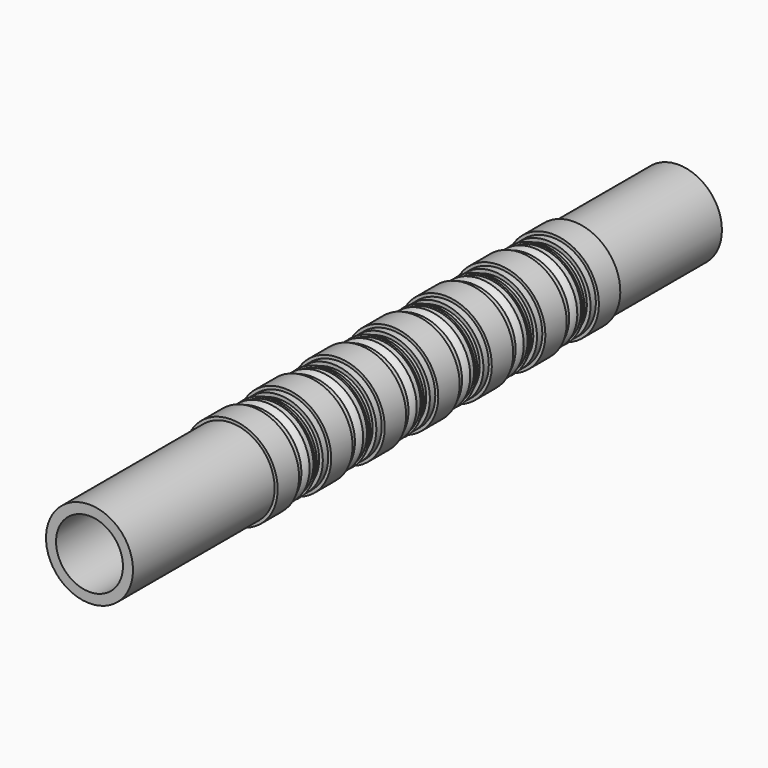
from build123d import *

# Parameters (mm, degrees)
F0_R          = 16.51
F0_R_2        = 12.7
F1_DEPTH      = 139.7
F1_DEPTH_BACK = 139.7
F2_W          = 10.16
F2_H          = 2.54


with BuildPart() as f1:
    # F0 (on Front) → F1 (new body, two sides)
    with BuildSketch(Plane.XZ) as f1_sk:
        Circle(F0_R)
        Circle(F0_R_2, mode=Mode.SUBTRACT)
    extrude(amount=-F1_DEPTH)
    extrude(f1_sk.sketch, amount=F1_DEPTH_BACK)

    # F2 (on Right) → F3 (revolve, cut)
    with BuildSketch(Plane.YZ):
        with Locations((-54.7121922189, 16.3828185506)):
            Rectangle(F2_W, F2_H)
        with Locations((-29.3121922189, 16.3828185506)):
            Rectangle(F2_W, F2_H)
        with Locations((-3.9121922189, 16.3828185506)):
            Rectangle(F2_W, F2_H)
        with Locations((21.4878077811, 16.3828185506)):
            Rectangle(F2_W, F2_H)
        with Locations((46.8878077811, 16.3828185506)):
            Rectangle(F2_W, F2_H)
        with Locations((72.2878077811, 16.3828185506)):
            Rectangle(F2_W, F2_H)
    revolve(axis=Axis((0, 5.662612617, 0), (0, 1, 0)), mode=Mode.SUBTRACT)

    # F2 (on Right) → F4 (revolve)
    with BuildSketch(Plane.YZ):
        with Locations((-67.4121922189, 16.3828185506)):
            Rectangle(F2_W, F2_H)
        with Locations((-42.0121922189, 16.3828185506)):
            Rectangle(F2_W, F2_H)
        with Locations((-16.6121922189, 16.3828185506)):
            Rectangle(F2_W, F2_H)
        with Locations((8.7878077811, 16.3828185506)):
            Rectangle(F2_W, F2_H)
        with Locations((34.1878077811, 16.3828185506)):
            Rectangle(F2_W, F2_H)
        with Locations((59.5878077811, 16.3828185506)):
            Rectangle(F2_W, F2_H)
        with Locations((84.9878077811, 16.3828185506)):
            Rectangle(F2_W, F2_H)
    revolve(axis=Axis((0, 5.662612617, 0), (0, 1, 0)))

    # F5 (on Right) → F6 (revolve)
    with BuildSketch(Plane.YZ):
        with BuildLine():
            Line((-50.9021922189, 14.731345475), (-50.9021922189, 15.1634888104))
            ThreePointArc((-50.9021922189, 15.1634888104), (-52.0859586748, 16.1518668371), (-53.5117462277, 16.7395095853))
            Line((-53.5117462277, 16.7395095853), (-53.5117462277, 16.0580500076))
            Line((-53.5117462277, 16.0580500076), (-56.1186348169, 16.0580500076))
            Line((-56.1186348169, 16.0580500076), (-56.1186348169, 16.6848105865))
            ThreePointArc((-56.1186348169, 16.6848105865), (-57.4290697154, 16.0958171339), (-58.5221922189, 15.1634888104))
            Line((-58.5221922189, 15.1634888104), (-58.5221922189, 14.731345475))
            Line((-58.5221922189, 14.731345475), (-50.9021922189, 14.731345475))
        make_face()
        with BuildLine():
            Line((-25.5021922189, 14.731345475), (-25.5021922189, 15.1634888104))
            ThreePointArc((-25.5021922189, 15.1634888104), (-26.6859586748, 16.1518668371), (-28.1117462277, 16.7395095853))
            Line((-28.1117462277, 16.7395095853), (-28.1117462277, 16.0580500076))
            Line((-28.1117462277, 16.0580500076), (-30.7186348169, 16.0580500076))
            Line((-30.7186348169, 16.0580500076), (-30.7186348169, 16.6848105865))
            ThreePointArc((-30.7186348169, 16.6848105865), (-32.0290697154, 16.0958171339), (-33.1221922189, 15.1634888104))
            Line((-33.1221922189, 15.1634888104), (-33.1221922189, 14.731345475))
            Line((-33.1221922189, 14.731345475), (-25.5021922189, 14.731345475))
        make_face()
        with BuildLine():
            Line((-0.1021922189, 14.731345475), (-0.1021922189, 15.1634888104))
            ThreePointArc((-0.1021922189, 15.1634888104), (-1.2859586748, 16.1518668371), (-2.7117462277, 16.7395095853))
            Line((-2.7117462277, 16.7395095853), (-2.7117462277, 16.0580500076))
            Line((-2.7117462277, 16.0580500076), (-5.3186348169, 16.0580500076))
            Line((-5.3186348169, 16.0580500076), (-5.3186348169, 16.6848105865))
            ThreePointArc((-5.3186348169, 16.6848105865), (-6.6290697154, 16.0958171339), (-7.7221922189, 15.1634888104))
            Line((-7.7221922189, 15.1634888104), (-7.7221922189, 14.731345475))
            Line((-7.7221922189, 14.731345475), (-0.1021922189, 14.731345475))
        make_face()
        with BuildLine():
            Line((25.2978077811, 14.731345475), (25.2978077811, 15.1634888104))
            ThreePointArc((25.2978077811, 15.1634888104), (24.1140413252, 16.1518668371), (22.6882537723, 16.7395095853))
            Line((22.6882537723, 16.7395095853), (22.6882537723, 16.0580500076))
            Line((22.6882537723, 16.0580500076), (20.0813651831, 16.0580500076))
            Line((20.0813651831, 16.0580500076), (20.0813651831, 16.6848105865))
            ThreePointArc((20.0813651831, 16.6848105865), (18.7709302846, 16.0958171339), (17.6778077811, 15.1634888104))
            Line((17.6778077811, 15.1634888104), (17.6778077811, 14.731345475))
            Line((17.6778077811, 14.731345475), (25.2978077811, 14.731345475))
        make_face()
        with BuildLine():
            Line((50.6978077811, 14.731345475), (50.6978077811, 15.1634888104))
            ThreePointArc((50.6978077811, 15.1634888104), (49.5140413252, 16.1518668371), (48.0882537723, 16.7395095853))
            Line((48.0882537723, 16.7395095853), (48.0882537723, 16.0580500076))
            Line((48.0882537723, 16.0580500076), (45.4813651831, 16.0580500076))
            Line((45.4813651831, 16.0580500076), (45.4813651831, 16.6848105865))
            ThreePointArc((45.4813651831, 16.6848105865), (44.1709302846, 16.0958171339), (43.0778077811, 15.1634888104))
            Line((43.0778077811, 15.1634888104), (43.0778077811, 14.731345475))
            Line((43.0778077811, 14.731345475), (50.6978077811, 14.731345475))
        make_face()
        with BuildLine():
            Line((76.0978077811, 14.731345475), (76.0978077811, 15.1634888104))
            ThreePointArc((76.0978077811, 15.1634888104), (74.9140413252, 16.1518668371), (73.4882537723, 16.7395095853))
            Line((73.4882537723, 16.7395095853), (73.4882537723, 16.0580500076))
            Line((73.4882537723, 16.0580500076), (70.8813651831, 16.0580500076))
            Line((70.8813651831, 16.0580500076), (70.8813651831, 16.6848105865))
            ThreePointArc((70.8813651831, 16.6848105865), (69.5709302846, 16.0958171339), (68.4778077811, 15.1634888104))
            Line((68.4778077811, 15.1634888104), (68.4778077811, 14.731345475))
            Line((68.4778077811, 14.731345475), (76.0978077811, 14.731345475))
        make_face()
    revolve(axis=Axis((0, 11.8440762162, 0), (0, 1, 0)))


solid = f1.part
